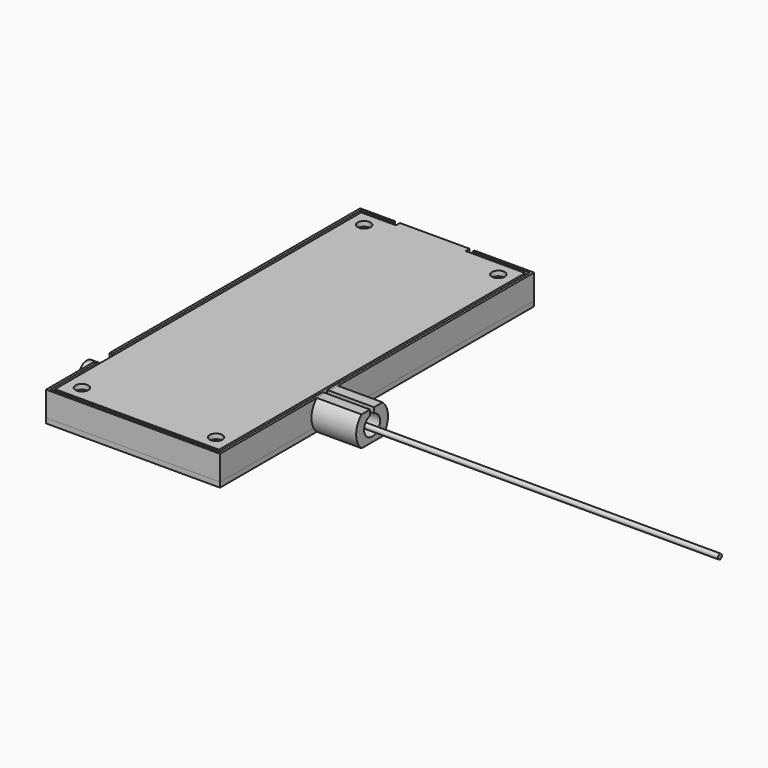
from build123d import *

# Parameters (mm, degrees)
BOX_W                 = 31
BOX_H                 = 39
BOX_DEPTH             = 1
SKETCH_W              = 4
SKETCH_H              = 1
SKETCH_W_2            = 2
SKETCH_W_3            = 10
EXTRUDE_DEPTH         = 2.4
CYLINDER_R            = 0.5
CYLINDER_DEPTH        = 81
CYLINDER001_R         = 2
CYLINDER001_DEPTH     = 5
SKETCH004_R           = 2.95
SKETCH004_R_2         = 0.95
EXTRUDE002_DEPTH      = 4
SKETCH005_R           = 1.3
EXTRUDE003_DEPTH      = 1
SKETCH010_W           = 4
SKETCH010_H           = 6.6
EXTRUDE008_DEPTH      = 4
SKETCH009_W           = 1
SKETCH009_H           = 6
EXTRUDE007_DEPTH      = 1
EXTRUDE007_DEPTH_BACK = 3
SKETCH008_W           = 3.5
SKETCH008_H           = 2
SKETCH008_W_2         = 8
EXTRUDE006_DEPTH      = 12
EXTRUDE001_DEPTH      = 9
SKETCH006_W           = 35
SKETCH006_H           = 79
SKETCH006_R           = 0.95
EXTRUDE004_DEPTH      = 1


with BuildPart() as board:
    # Box → Box (new body)
    with BuildSketch(Plane.XY):
        with Locations((15.5, 19.5)):
            Rectangle(BOX_W, BOX_H)
    extrude(amount=BOX_DEPTH)


with BuildPart() as extrude_body:
    # Sketch → Extrude (new body)
    with BuildSketch(Plane.XY):
        with Locations((2, 39.5)):
            Rectangle(SKETCH_W, SKETCH_H)
        with Locations((30, 39.5)):
            Rectangle(SKETCH_W_2, SKETCH_H)
        with Locations((5, -0.5)):
            Rectangle(SKETCH_W_3, SKETCH_H)
        with Locations((26, -0.5)):
            Rectangle(SKETCH_W_3, SKETCH_H)
    extrude(amount=EXTRUDE_DEPTH)


with BuildPart() as antenna:
    # Cylinder → Cylinder (new body)
    with BuildSketch(Plane(origin=(31, 18, 1.5), x_dir=(0, 0, -1), z_dir=(1, 0, 0))):
        Circle(CYLINDER_R)
    extrude(amount=CYLINDER_DEPTH)


with BuildPart() as led:
    # Cylinder001 → Cylinder001 (new body)
    with BuildSketch(Plane(origin=(0, 5, 1.5), x_dir=(0, 0, 1), z_dir=(-1, 0, 0))):
        Circle(CYLINDER001_R)
    extrude(amount=CYLINDER001_DEPTH)


with BuildPart() as extrude002:
    # Sketch004 → Extrude002 (new body)
    with BuildSketch(Plane.XY):
        Circle(SKETCH004_R)
        Circle(SKETCH004_R_2, mode=Mode.SUBTRACT)
    extrude(amount=EXTRUDE002_DEPTH)


with BuildPart() as body:
    # Body base: copy of Extrude002
    add(extrude002.part)


with BuildPart() as body_1:
    # Body placement: moved
    add(body.part.moved(Location((2, 66, 0))))


with BuildPart() as body001:
    # Body001 base: copy of Extrude002
    add(extrude002.part)


with BuildPart() as body001_1:
    # Body001 placement: moved
    add(body001.part.moved(Location((29, 66, 0))))


with BuildPart() as body002:
    # Body002 base: copy of Extrude002
    add(extrude002.part)


with BuildPart() as body002_1:
    # Body002 placement: moved
    add(body002.part.moved(Location((2, -5, 0))))


with BuildPart() as body003:
    # Body003 base: copy of Extrude002
    add(extrude002.part)


with BuildPart() as body003_1:
    # Body003 placement: moved
    add(body003.part.moved(Location((29, -5, 0))))


with BuildPart() as top:
    # Sketch005 → Extrude003 (new body)
    with BuildSketch(Plane.XY.offset(4)):
        Polygon((32, 69), (32, -8), (-1, -8), (-1, 69), (6, 69), (6, 70), (20, 70), (20, 69), align=None)
        with Locations((2, -5)):
            Circle(SKETCH005_R, mode=Mode.SUBTRACT)
        with Locations((29, -5)):
            Circle(SKETCH005_R, mode=Mode.SUBTRACT)
        with Locations((2, 66)):
            Circle(SKETCH005_R, mode=Mode.SUBTRACT)
        with Locations((29, 66)):
            Circle(SKETCH005_R, mode=Mode.SUBTRACT)
    extrude(amount=EXTRUDE003_DEPTH)


with BuildPart() as led003:
    # Sketch010 → Extrude008 (new body)
    with BuildSketch(Plane(origin=(-3, 0, 0), x_dir=(0, -1, 0), z_dir=(-1, 0, 0))):
        with Locations((-5, 2.7)):
            Rectangle(SKETCH010_W, SKETCH010_H)
    extrude(amount=-EXTRUDE008_DEPTH)


with BuildPart() as led004:
    # Body006 base: copy of led003
    add(led003.part)


with BuildPart() as compound:
    # Sketch009 → Extrude007 (new body, two sides)
    with BuildSketch(Plane.YZ.offset(33)) as extrude007_sk:
        with Locations((18, 3.6)):
            Rectangle(SKETCH009_W, SKETCH009_H)
    extrude(amount=EXTRUDE007_DEPTH)
    extrude(extrude007_sk.sketch, amount=-EXTRUDE007_DEPTH_BACK)

    # Compound: union led004
    add(led004.part)


with BuildPart() as cut:
    # Sweep: sweep along a path in Sketch003
    with BuildLine(Plane.XY) as sweep_path:
        Line((5, 68), (0, 68))
        Line((0, 68), (0, -7))
        Line((0, -7), (31, -7))
        Line((31, -7), (31, 68))
        Line((31, 68), (21, 68))
    # Sketch002 → Sweep (sweep)
    with BuildSketch(Plane.YZ.offset(16)):
        Polygon((-7, 0), (-7, 4), (-8.5, 4), (-8.5, 5), (-9, 5), (-9, 0), align=None)
    sweep(path=sweep_path.line, transition=Transition.RIGHT)

    # Cut: cut Compound
    add(compound.part, mode=Mode.SUBTRACT)


with BuildPart() as compound002:
    # Sketch008 → Extrude006 (new body)
    with BuildSketch(Plane.YZ.offset(42)):
        with Locations((15.75, 6)):
            Rectangle(SKETCH008_W, SKETCH008_H)
        with Locations((20.25, 6)):
            Rectangle(SKETCH008_W, SKETCH008_H)
        with Locations((18, -2)):
            Rectangle(SKETCH008_W_2, SKETCH008_H)
    extrude(amount=-EXTRUDE006_DEPTH)


with BuildPart() as cut003:
    # Sketch001 → Extrude001 (new body)
    with BuildSketch(Plane.YZ.offset(33)):
        with BuildLine():
            ThreePointArc((17.5, 3.936492), (18, 0), (18.5, 3.936492))
            Line((18.5, 5.968627), (18.5, 3.936492))
            ThreePointArc((17.5, 5.968627), (18, -2), (18.5, 5.968627))
            Line((17.5, 5.968627), (17.5, 3.936492))
        make_face()
    extrude(amount=EXTRUDE001_DEPTH)

    # Cut003: cut Compound002
    add(compound002.part, mode=Mode.SUBTRACT)


with BuildPart() as led005:
    # Body007 base: copy of led003
    add(led003.part)


with BuildPart() as cut004:
    # Sketch006 → Extrude004 (new body)
    with BuildSketch(Plane.XY.offset(-1)):
        with Locations((15.5, 30.5)):
            Rectangle(SKETCH006_W, SKETCH006_H)
        with Locations((2, -5)):
            Circle(SKETCH006_R, mode=Mode.SUBTRACT)
        with Locations((29, -5)):
            Circle(SKETCH006_R, mode=Mode.SUBTRACT)
        with Locations((2, 66)):
            Circle(SKETCH006_R, mode=Mode.SUBTRACT)
        with Locations((29, 66)):
            Circle(SKETCH006_R, mode=Mode.SUBTRACT)
    extrude(amount=EXTRUDE004_DEPTH)

    # Cut004: cut led005
    add(led005.part, mode=Mode.SUBTRACT)


solid = Compound([board.part, extrude_body.part, antenna.part, led.part, body_1.part, body001_1.part, body002_1.part, body003_1.part, top.part, cut.part, cut003.part, cut004.part])
